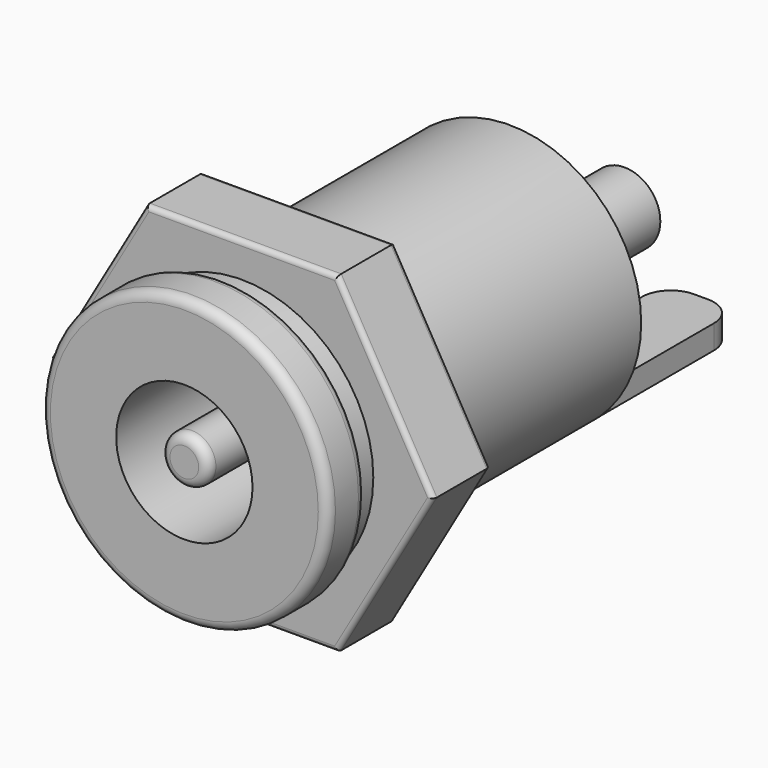
from build123d import *

# Parameters (mm, degrees)
SKETCH_R      = 5.5
PAD_DEPTH     = 15
SKETCH001_R   = 6
PAD001_DEPTH  = 2
SKETCH002_R   = 1.5
PAD002_DEPTH  = 6
SKETCH003_W   = 3
SKETCH003_H   = 1
PAD003_DEPTH  = 10
SKETCH004_R   = 2.85
SKETCH004_R_2 = 1
POCKET_DEPTH  = 10
FILLET_R      = 1.2
FILLET001_R   = 0.4
SKETCH005_R   = 5
PAD004_DEPTH  = 3
FILLET002_R   = 0.2


with BuildPart() as part:
    # Sketch → Pad (new body)
    with BuildSketch(Plane.XZ):
        Circle(SKETCH_R)
    extrude(amount=-PAD_DEPTH)

    # Sketch001 → Pad001 (join)
    with BuildSketch(Plane.XZ):
        Circle(SKETCH001_R)
    extrude(amount=PAD001_DEPTH)

    # Sketch002 (on Face5 of Pad001) → Pad002 (join)
    with BuildSketch(Plane(origin=(0, 15, 0), x_dir=(1, 0, 0), z_dir=(0, 1, 0))):
        Circle(SKETCH002_R)
    extrude(amount=PAD002_DEPTH)

    # Sketch003 (on Face5 of Pad002) → Pad003 (join)
    with BuildSketch(Plane(origin=(0, 15, 0), x_dir=(1, 0, 0), z_dir=(0, 1, 0))):
        with Locations((0, 5.391628)):
            Rectangle(SKETCH003_W, SKETCH003_H)
    extrude(amount=PAD003_DEPTH)

    # Sketch004 (on Face3 of Pad003) → Pocket (cut)
    with BuildSketch(Plane.XZ.offset(2)):
        Circle(SKETCH004_R)
        Circle(SKETCH004_R_2, mode=Mode.SUBTRACT)
    extrude(amount=-POCKET_DEPTH, mode=Mode.SUBTRACT)

    # Fillet
    fillet_edges = [part.edges().sort_by_distance(p)[0] for p in [
        (1.5, 25, -5.391628),
        (-1.5, 25, -5.391628),
    ]]
    fillet(fillet_edges, radius=FILLET_R)

    # Fillet001
    fillet001_edges = [part.edges().sort_by_distance(p)[0] for p in [
        (-6, -2, 0),
        (-6, 0, 0),
        (-1, -2, 0),
    ]]
    fillet(fillet001_edges, radius=FILLET001_R)

    # Sketch005 (on DatumPlane) → Pad004 (join)
    with BuildSketch(Plane.XZ.offset(-1)):
        Polygon((4, -6.928203), (8, 0), (4, 6.928203), (-4, 6.928203), (-8, 0), (-4, -6.928203), align=None)
        Circle(SKETCH005_R, mode=Mode.SUBTRACT)
    extrude(amount=-PAD004_DEPTH)

    # Fillet002
    fillet002_edges = [part.edges().sort_by_distance(p)[0] for p in [
        (0, 1, -6.928203),
        (6, 1, -3.464102),
        (0, 1, 6.928203),
        (6, 1, 3.464102),
        (-6, 1, -3.464102),
        (-6, 1, 3.464102),
        (-6, 4, 3.464102),
        (-6, 4, -3.464102),
        (0, 4, 6.928203),
        (6, 4, 3.464102),
        (6, 4, -3.464102),
        (0, 4, -6.928203),
    ]]
    fillet(fillet002_edges, radius=FILLET002_R)


solid = part.part
